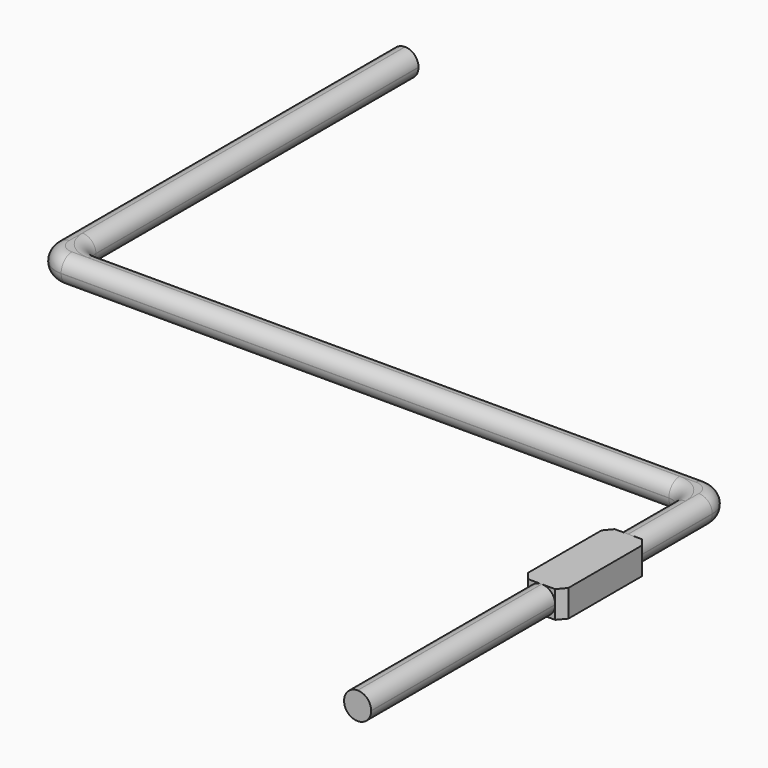
from build123d import *

# Parameters (mm, degrees)
BOX010_W           = 2
BOX010_H           = 33.5
BOX010_DEPTH       = 2
BOX011_W           = 46.1
BOX011_H           = 2
BOX011_DEPTH       = 2
BOX012_W           = 2
BOX012_H           = 33
BOX012_DEPTH       = 2
FILLET_R           = 1.99
FILLET001_R        = 1.2
FILLET002_R        = 0.99
BOX013_W           = 3
BOX013_H           = 8
BOX013_DEPTH       = 2
CHAMFER_1_ANGLE    = 50
CHAMFER_1_SIZE     = 0.499
CHAMFER_2_ANGLE    = 50
CHAMFER_2_SIZE     = 0.499
CHAMFER001_1_ANGLE = 40
CHAMFER001_1_SIZE  = 0.5955
CHAMFER001_2_ANGLE = 40
CHAMFER001_2_SIZE  = 0.5955


with BuildPart() as part:
    # Box010 → Box010 (join)
    with BuildSketch(Plane(origin=(23, -32, 2.5), x_dir=(1, 0, 0), z_dir=(0, 0, 1))):
        with Locations((1, 16.75)):
            Rectangle(BOX010_W, BOX010_H)
    extrude(amount=BOX010_DEPTH)

    # Box011 → Box011 (join)
    with BuildSketch(Plane(origin=(-23.1, -0.5, 2.5), x_dir=(1, 0, 0), z_dir=(0, 0, 1))):
        with Locations((23.05, 1)):
            Rectangle(BOX011_W, BOX011_H)
    extrude(amount=BOX011_DEPTH)

    # Box012 → Box012 (join)
    with BuildSketch(Plane(origin=(-25.1, -0.5, 2.5), x_dir=(1, 0, 0), z_dir=(0, 0, 1))):
        with Locations((1, 16.5)):
            Rectangle(BOX012_W, BOX012_H)
    extrude(amount=BOX012_DEPTH)

    # Fillet
    fillet_edges = [part.edges().sort_by_distance(p)[0] for p in [
        (-25.1, -0.5, 3.5),
        (25, 1.5, 3.5),
    ]]
    fillet(fillet_edges, radius=FILLET_R)

    # Fillet001
    fillet001_edges = [part.edges().sort_by_distance(p)[0] for p in [
        (23, -0.5, 3.5),
        (-23.1, 1.5, 3.5),
    ]]
    fillet(fillet001_edges, radius=FILLET001_R)

    # Fillet002
    fillet002_edges = [part.edges().sort_by_distance(p)[0] for p in [
        (24.417142, 0.917142, 4.5),
        (25, -16.245, 4.5),
        (0.55, 1.5, 4.5),
        (-22.748528, 1.851472, 4.5),
        (-23.1, 17.6, 4.5),
        (25, -16.245, 2.5),
        (24.417142, 0.917142, 2.5),
        (0.55, 1.5, 2.5),
        (-0.65, -0.5, 2.5),
        (22.648528, -0.851472, 2.5),
        (23, -16.85, 2.5),
        (-24.517142, 0.082858, 2.5),
        (-25.1, 16.995, 2.5),
        (-23.1, 17.6, 2.5),
        (-22.748528, 1.851472, 2.5),
        (23, -16.85, 4.5),
        (22.648528, -0.851472, 4.5),
        (-0.65, -0.5, 4.5),
        (-24.517142, 0.082858, 4.5),
        (-25.1, 16.995, 4.5),
        (-23.105, -0.5, 4.5),
    ]]
    fillet(fillet002_edges, radius=FILLET002_R)

    # Box013 → Box013 (join)
    with BuildSketch(Plane(origin=(22.5, -15, 2.5), x_dir=(1, 0, 0), z_dir=(0, 0, 1))):
        with Locations((1.5, 4)):
            Rectangle(BOX013_W, BOX013_H)
    extrude(amount=BOX013_DEPTH)

    # Chamfer 1
    chamfer_1_edges = [part.edges().sort_by_distance(p)[0] for p in [
        (22.5, -15, 3.5),
    ]]
    chamfer_1_side = part.faces().sort_by_distance((22.889504, -15, 3.5))[0]
    chamfer(chamfer_1_edges, length=CHAMFER_1_SIZE, angle=CHAMFER_1_ANGLE, reference=chamfer_1_side)

    # Chamfer 2
    chamfer_2_edges = [part.edges().sort_by_distance(p)[0] for p in [
        (25.5, -15, 3.5),
    ]]
    chamfer_2_side = part.faces().sort_by_distance((25.110496, -15, 3.5))[0]
    chamfer(chamfer_2_edges, length=CHAMFER_2_SIZE, angle=CHAMFER_2_ANGLE, reference=chamfer_2_side)

    # Chamfer001 1
    chamfer001_1_edges = [part.edges().sort_by_distance(p)[0] for p in [
        (25.5, -7, 3.5),
    ]]
    chamfer001_1_side = part.faces().sort_by_distance((25.5, -10.702657, 3.5))[0]
    chamfer(chamfer001_1_edges, length=CHAMFER001_1_SIZE, angle=CHAMFER001_1_ANGLE, reference=chamfer001_1_side)

    # Chamfer001 2
    chamfer001_2_edges = [part.edges().sort_by_distance(p)[0] for p in [
        (22.5, -7, 3.5),
    ]]
    chamfer001_2_side = part.faces().sort_by_distance((22.5, -10.702657, 3.5))[0]
    chamfer(chamfer001_2_edges, length=CHAMFER001_2_SIZE, angle=CHAMFER001_2_ANGLE, reference=chamfer001_2_side)


with BuildPart() as part_1:
    # Body001 placement: moved
    add(part.part.moved(Location((0, -0.55, 0))))


solid = part_1.part
